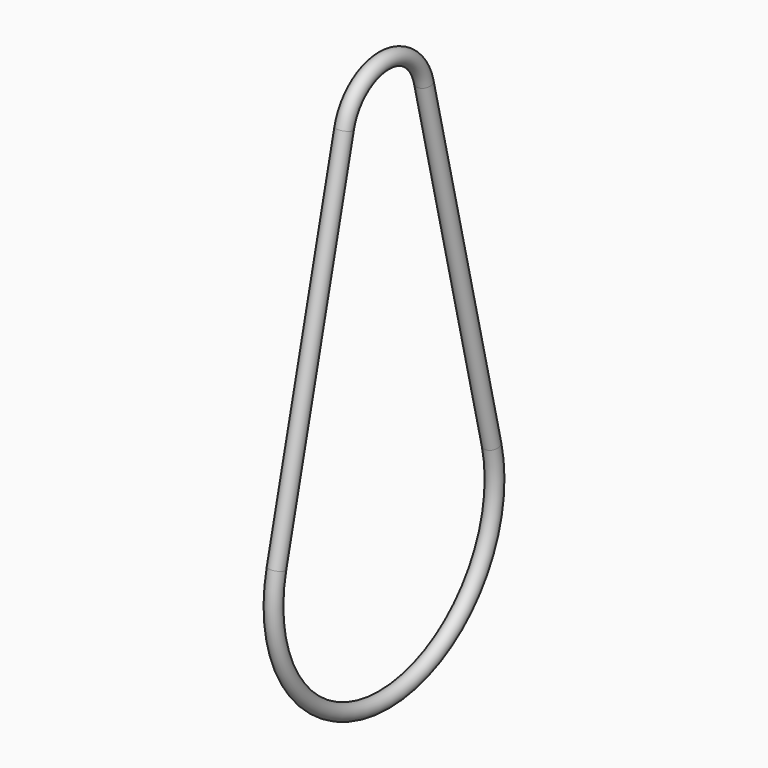
from build123d import *

# Parameters (mm, degrees)
SKETCH001_R = 0.89


with BuildPart() as part:
    # AdditivePipe: sweep along a path in Sketch
    with BuildLine(Plane.YZ) as additivepipe_path:
        ThreePointArc((5.727976, 1.372001), (0, 5.89), (-5.727976, 1.372001))
        Line((-5.727976, 1.372001), (-15.452894, -39.228626))
        ThreePointArc((-15.452894, -39.228626), (0, -58.82), (15.452894, -39.228626))
        Line((15.452894, -39.228626), (5.727976, 1.372001))
    # Sketch001 → AdditivePipe (sweep)
    with BuildSketch(Plane.XZ):
        with Locations((0, 5.89)):
            Circle(SKETCH001_R)
    sweep(path=additivepipe_path.line)


solid = part.part
